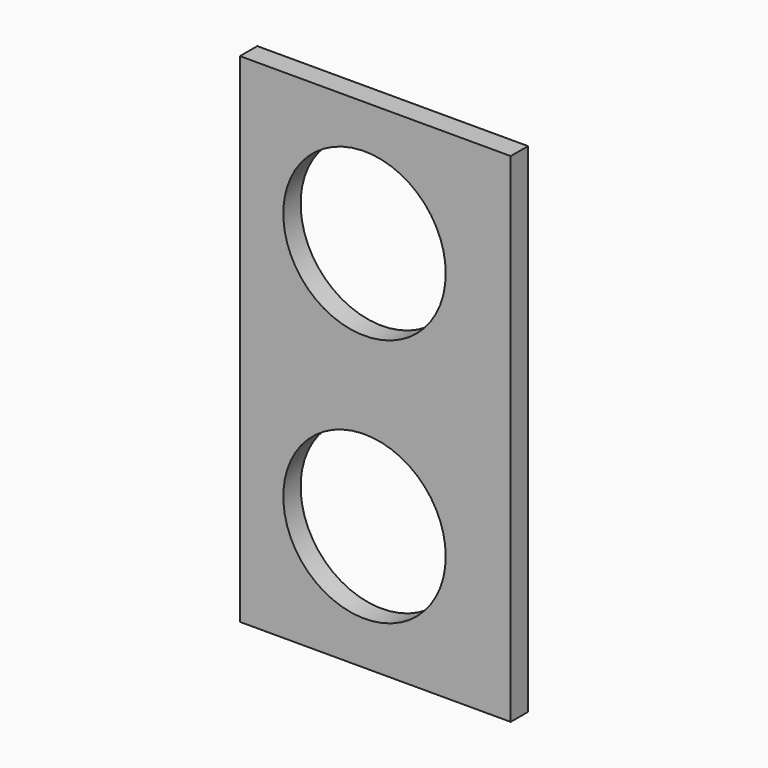
from build123d import *

# Parameters (mm, degrees)
SKETCH_W     = 25
SKETCH_H     = 46
PAD_DEPTH    = 2
SKETCH001_R  = 7.5
POCKET_DEPTH = 5


with BuildPart() as part:
    # Sketch → Pad (new body)
    with BuildSketch(Plane.XZ):
        Rectangle(SKETCH_W, SKETCH_H)
    extrude(amount=PAD_DEPTH)

    # Sketch001 (on Face6 of Pad) → Pocket (cut)
    with BuildSketch(Plane.XZ.offset(2)):
        with Locations((-1, 11.5)):
            Circle(SKETCH001_R)
        with Locations((-1, -11.5)):
            Circle(SKETCH001_R)
    extrude(amount=-POCKET_DEPTH, mode=Mode.SUBTRACT)


solid = part.part
